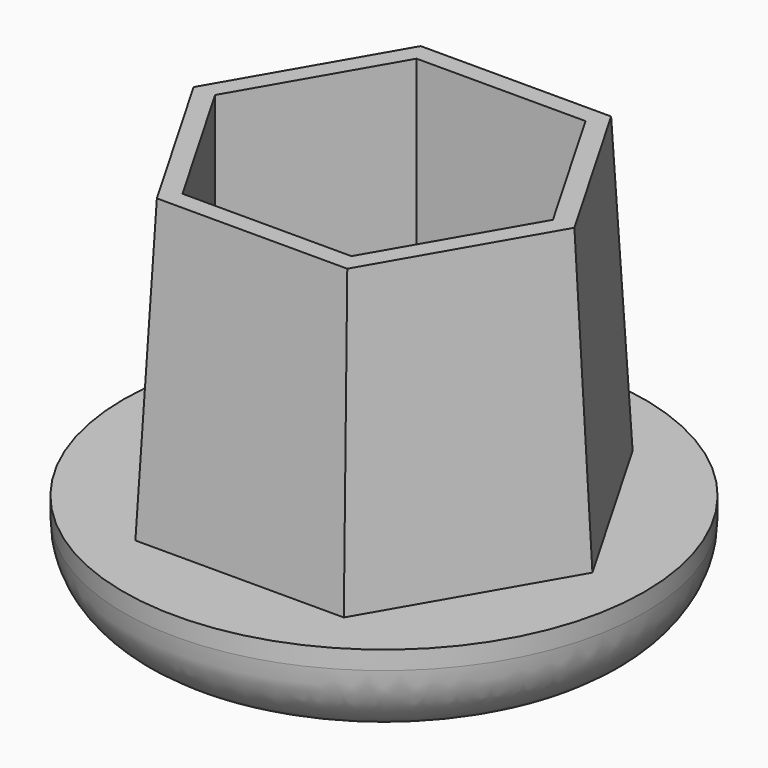
from build123d import *

# Parameters (mm, degrees)
F3_DEPTH = 8
F3_TAPER = 3
F4_R     = 2
F6_DEPTH = 9.06


with BuildPart() as f1:
    # F0 (on Front) → F1 (revolve)
    with BuildSketch(Plane.XZ):
        with BuildLine():
            Line((0, -3), (0, 0))
            Line((0, 0), (-7, 0))
            Line((-7, 0), (-7, -2))
            ThreePointArc((-7, -2), (-3.5445449433, -2.8118146033), (0, -3))
        make_face()
    revolve(axis=Axis((0, 0, -1.5), (0, 0, -1)))

    # F2 (on face) → F3 (join)
    with BuildSketch(Plane.XY):
        Polygon((2.8, -4.8497422612), (5.6, 0), (2.8, 4.8497422612), (-2.8, 4.8497422612), (-5.6, 0), (-2.8, -4.8497422612), align=None)
    extrude(amount=F3_DEPTH, taper=F3_TAPER)

    # F4
    f4_edges = [f1.edges().sort_by_distance(p)[0] for p in [
        (7, 0, -2),
    ]]
    fillet(f4_edges, radius=F4_R)

    # F5 (on face) → F6 (cut)
    with BuildSketch(Plane.XY.offset(8)):
        Polygon((-2.2692637016, -3.9304800269), (2.2692637016, -3.9304800269), (4.5385274032, 0), (2.2692637016, 3.9304800269), (-2.2692637016, 3.9304800269), (-4.5385274032, 0), align=None)
    extrude(amount=-F6_DEPTH, mode=Mode.SUBTRACT)


solid = f1.part
